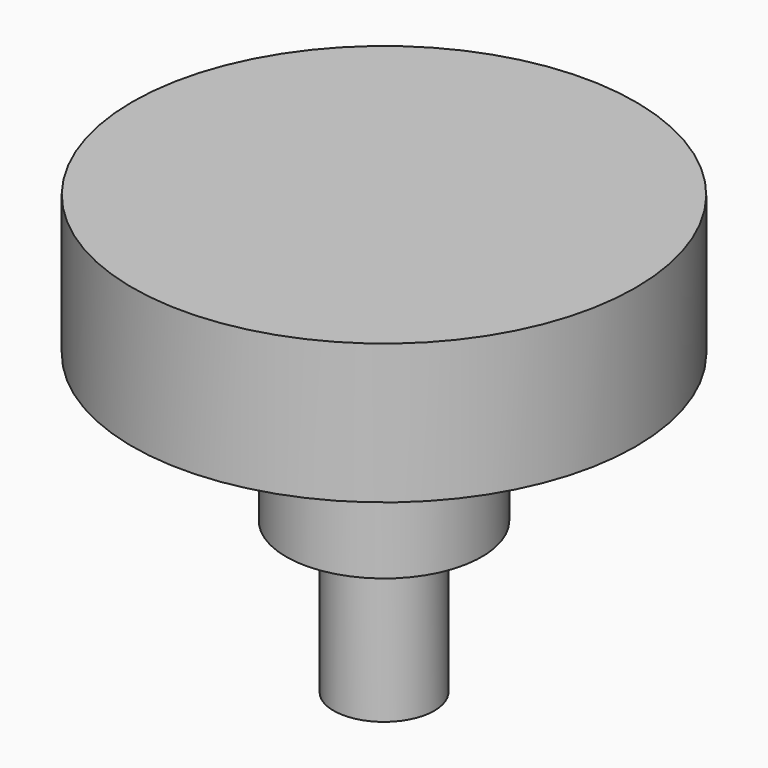
from build123d import *

# Parameters (mm, degrees)
F2_R     = 1
F3_DEPTH = 3


with BuildPart() as f1:
    # F0 (on Front) → F1 (revolve)
    with BuildSketch(Plane.XZ):
        with BuildLine():
            ThreePointArc((-1.286008, 0.199588), (-1.432455, 0.553142), (-1.786008, 0.699588))
            Line((-1.786008, 0.699588), (-2.63786, 0.699588))
            ThreePointArc((-2.63786, 0.699588), (-2.991413, 0.846035), (-3.13786, 1.199588))
            Line((-3.13786, 1.199588), (-3.13786, 1.825103))
            ThreePointArc((-3.13786, 1.825103), (-2.991413, 2.178656), (-2.63786, 2.325103))
            Line((-2.63786, 2.325103), (0.95679, 2.325103))
            Line((0.95679, 2.325103), (0.95679, 2.777778))
            Line((0.95679, 2.777778), (-3.13786, 2.777778))
            Line((-3.13786, 2.777778), (-4.04321, 2.777778))
            Line((-4.04321, 2.777778), (-4.04321, 2.325103))
            Line((-4.04321, 2.325103), (-4.04321, 0.699588))
            Line((-4.04321, 0.699588), (-4.04321, 0))
            Line((-4.04321, 0), (-3.13786, 0))
            Line((-3.13786, 0), (-1.286008, 0))
            Line((-1.286008, 0), (-1.286008, 0.199588))
        make_face()
        with BuildLine():
            Line((-0.987654, 2.078189), (-2.432099, 2.078189))
            ThreePointArc((-2.432099, 2.078189), (-2.785652, 1.931743), (-2.932099, 1.578189))
            Line((-2.932099, 1.578189), (-2.932099, 1.384774))
            ThreePointArc((-2.932099, 1.384774), (-2.785652, 1.03122), (-2.432099, 0.884774))
            Line((-2.432099, 0.884774), (-1.487654, 0.884774))
            ThreePointArc((-1.487654, 0.884774), (-1.134101, 0.738327), (-0.987654, 0.384774))
            Line((-0.987654, 0.384774), (-0.987654, -2.921811))
            Line((-0.987654, -2.921811), (0.95679, -2.921811))
            Line((0.95679, -2.921811), (0.95679, 0.884774))
            Line((0.95679, 0.884774), (0.95679, 2.078189))
            Line((0.95679, 2.078189), (-0.987654, 2.078189))
        make_face()
    revolve(axis=Axis((0.95679, 0, -0.421811), (0, 0, -1)))

    # F2 (on face) → F3 (join)
    with BuildSketch(Plane(origin=(0, 0, -2.921811), x_dir=(1, 0, 0), z_dir=(0, 0, -1))):
        with Locations((0.95679, 0)):
            Circle(F2_R)
    extrude(amount=F3_DEPTH)


solid = f1.part
